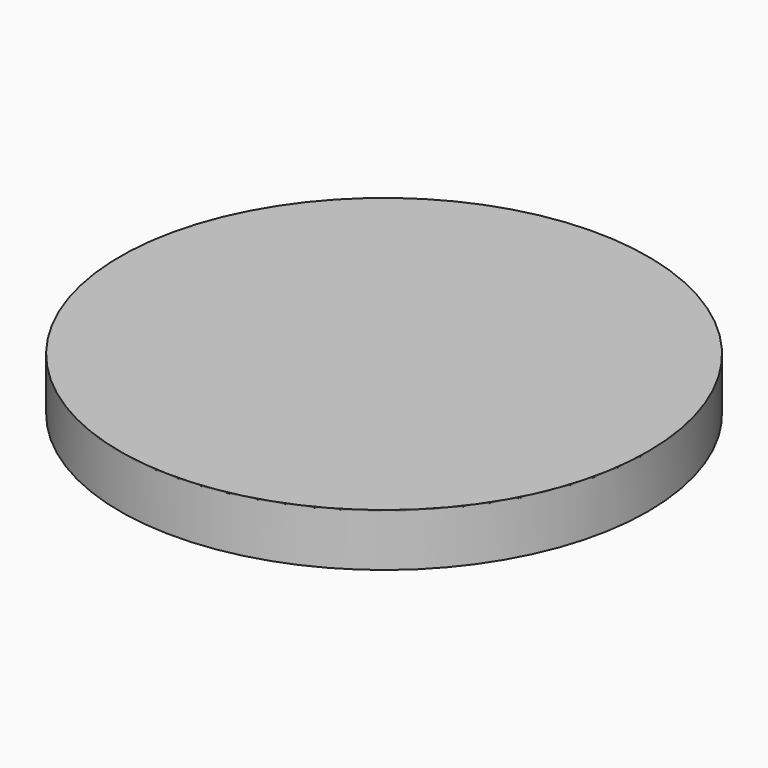
from build123d import *

# Parameters (mm, degrees)
F0_R     = 500
F1_DEPTH = 100


with BuildPart() as f1:
    # F0 (on Top) → F1 (new body)
    with BuildSketch(Plane.XY):
        Circle(F0_R)
    extrude(amount=F1_DEPTH)


with BuildPart() as f3:
    # F2 (on Front) → F3 (revolve)
    with BuildSketch(Plane.XZ):
        with BuildLine():
            add(Edge.make_bspline(
                [(0, 50), (500, 50), (500, 100)],
                knots=[4.7123889804, 4.7123889804, 4.7123889804, 6.2831853072, 6.2831853072, 6.2831853072], degree=2, weights=[1, 0.7071067812, 1]))
            Line((0, 50), (0, 0))
            Line((0, 0), (500, 0))
            Line((500, 0), (500, 100))
        make_face()
    revolve(axis=Axis((0, 0, 25), (0, 0, -1)))


solid = Compound([f1.part, f3.part])
